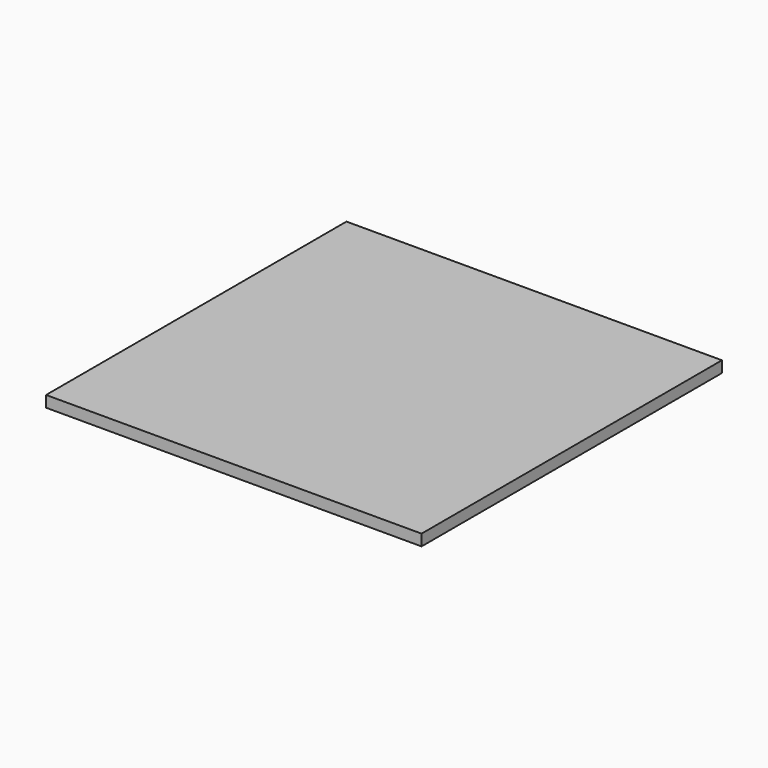
from build123d import *

# Parameters (mm, degrees)
SKETCH_W     = 50
SKETCH_H     = 50
PAD_DEPTH    = 1.5
PAD001_DEPTH = 1.5


with BuildPart() as part:
    # Sketch → Pad (new body)
    with BuildSketch(Plane.XY):
        Rectangle(SKETCH_W, SKETCH_H)
    extrude(amount=PAD_DEPTH)

    # Sketch018 → Pad001 (join)
    with BuildSketch(Plane.XY):
        with BuildLine():
            add(Edge.make_bspline(
                [(10.869189, -4.83777), (5.814295, -14.947241)],
                knots=[0, 0, 35.758305, 35.758305], degree=1))
            add(Edge.make_bspline(
                [(5.814295, -14.947241), (3.738223, -8.719342)],
                knots=[0, 0, 20.768891, 20.768891], degree=1))
            add(Edge.make_bspline(
                [(3.738223, -8.719342), (1.662151, -7.488176)],
                knots=[0, 0, 7.636075, 7.636075], degree=1))
            add(Edge.make_bspline(
                [(1.662151, -7.488176), (5.521597, -19.067144)],
                knots=[0, 0, 38.613308, 38.613308], degree=1))
            add(Edge.make_bspline(
                [(5.521597, -19.067144), (11.845903, -6.418215)],
                knots=[0, 0, 44.740143, 44.740143], degree=1))
            add(Edge.make_bspline(
                [(11.845903, -6.418215), (19.891946, -6.418215)],
                knots=[0, 0, 25.455, 25.455], degree=1))
            add(Edge.make_bspline(
                [(19.891946, -6.418215), (19.891946, -4.83777)],
                knots=[0, 0, 5, 5], degree=1))
            add(Edge.make_bspline(
                [(19.891946, -4.83777), (10.869189, -4.83777)],
                knots=[0, 0, 28.545, 28.545], degree=1))
        make_face()
        with BuildLine():
            add(Edge.make_bspline(
                [(4.25408, -1.613032), (9.465122, 2.858362)],
                knots=[0, 0, 21.723202, 21.723202], degree=1))
            add(Edge.make_bspline(
                [(9.465122, 2.858362), (2.620849, 3.412466)],
                knots=[0, 0, 21.723844, 21.723844], degree=1))
            add(Edge.make_bspline(
                [(2.620849, 3.412466), (-0.020706, 9.75068)],
                knots=[0, 0, 21.723769, 21.723769], degree=1))
            add(Edge.make_bspline(
                [(-0.020706, 9.75068), (-2.663209, 3.412466)],
                knots=[0, 0, 21.724924, 21.724924], degree=1))
            add(Edge.make_bspline(
                [(-2.663209, 3.412466), (-9.506849, 2.858362)],
                knots=[0, 0, 21.721851, 21.721851], degree=1))
            add(Edge.make_bspline(
                [(-9.506849, 2.858362), (-4.295808, -1.613032)],
                knots=[0, 0, 21.723202, 21.723202], degree=1))
            add(Edge.make_bspline(
                [(-4.295808, -1.613032), (-5.884155, -8.29357)],
                knots=[0, 0, 21.724154, 21.724154], degree=1))
            add(Edge.make_bspline(
                [(-5.884155, -8.29357), (-0.020706, -4.718921)],
                knots=[0, 0, 21.725468, 21.725468], degree=1))
            add(Edge.make_bspline(
                [(-0.020706, -4.718921), (5.841795, -8.29357)],
                knots=[0, 0, 21.722907, 21.722907], degree=1))
            add(Edge.make_bspline(
                [(5.841795, -8.29357), (4.25408, -1.613032)],
                knots=[0, 0, 21.723691, 21.723691], degree=1))
        make_face()
        with BuildLine():
            add(Edge.make_bspline(
                [(-3.469868, -4.970528), (-2.535509, -1.040911)],
                knots=[0, 0, 12.778598, 12.778598], degree=1))
            add(Edge.make_bspline(
                [(-2.535509, -1.040911), (-5.600623, 1.589265)],
                knots=[0, 0, 12.777748, 12.777748], degree=1))
            add(Edge.make_bspline(
                [(-5.600623, 1.589265), (-1.575231, 1.915469)],
                knots=[0, 0, 12.776746, 12.776746], degree=1))
            add(Edge.make_bspline(
                [(-1.575231, 1.915469), (-0.021022, 5.643421)],
                knots=[0, 0, 12.777923, 12.777923], degree=1))
            add(Edge.make_bspline(
                [(-0.021022, 5.643421), (1.532871, 1.915469)],
                knots=[0, 0, 12.777539, 12.777539], degree=1))
            add(Edge.make_bspline(
                [(1.532871, 1.915469), (5.558895, 1.589265)],
                knots=[0, 0, 12.77874, 12.77874], degree=1))
            add(Edge.make_bspline(
                [(5.558895, 1.589265), (2.493781, -1.040911)],
                knots=[0, 0, 12.777748, 12.777748], degree=1))
            add(Edge.make_bspline(
                [(2.493781, -1.040911), (3.427508, -4.970528)],
                knots=[0, 0, 12.778135, 12.778135], degree=1))
            add(Edge.make_bspline(
                [(3.427508, -4.970528), (-0.021022, -2.867904)],
                knots=[0, 0, 12.777997, 12.777997], degree=1))
            add(Edge.make_bspline(
                [(-0.021022, -2.867904), (-3.469868, -4.970528)],
                knots=[0, 0, 12.778851, 12.778851], degree=1))
        make_face(mode=Mode.SUBTRACT)
        with BuildLine():
            add(Edge.make_bspline(
                [(17.464067, 9.093215), (17.782685, 9.093215)],
                knots=[0, 0, 1.008, 1.008], degree=1))
            add(Edge.make_bspline(
                [(17.782685, 9.093215), (17.782685, 6.343242)],
                knots=[0, 0, 8.7, 8.7], degree=1))
            add(Edge.make_bspline(
                [(17.782685, 6.343242), (17.464067, 6.343242)],
                knots=[0, 0, 1.008, 1.008], degree=1))
            add(Edge.make_bspline(
                [(17.464067, 6.343242), (17.464067, 9.093215)],
                knots=[0, 0, 8.7, 8.7], degree=1))
        make_face()
        with BuildLine():
            add(Edge.make_bspline(
                [(11.983402, 6.775652), (11.983402, 6.745307), (11.978028, 6.704848), (11.96823, 6.654273)],
                knots=[0, 0, 0, 0, 1, 1, 1, 1], degree=3))
            add(Edge.make_bspline(
                [(11.96823, 6.654273), (11.958115, 6.603699), (11.931563, 6.553125), (11.888575, 6.502551)],
                knots=[0, 0, 0, 0, 1, 1, 1, 1], degree=3))
            add(Edge.make_bspline(
                [(11.888575, 6.502551), (11.845271, 6.451976), (11.780789, 6.408356), (11.695129, 6.37169)],
                knots=[0, 0, 0, 0, 1, 1, 1, 1], degree=3))
            add(Edge.make_bspline(
                [(11.695129, 6.37169), (11.609153, 6.335024), (11.490303, 6.31669), (11.338581, 6.31669)],
                knots=[0, 0, 0, 0, 1, 1, 1, 1], degree=3))
            add(Edge.make_bspline(
                [(11.338581, 6.31669), (11.186858, 6.31669), (11.068009, 6.335024), (10.982032, 6.37169)],
                knots=[0, 0, 0, 0, 1, 1, 1, 1], degree=3))
            add(Edge.make_bspline(
                [(10.982032, 6.37169), (10.896056, 6.408356), (10.831258, 6.451976), (10.788586, 6.502551)],
                knots=[0, 0, 0, 0, 1, 1, 1, 1], degree=3))
            add(Edge.make_bspline(
                [(10.788586, 6.502551), (10.745914, 6.553125), (10.719046, 6.604331), (10.708932, 6.65617)],
                knots=[0, 0, 0, 0, 1, 1, 1, 1], degree=3))
            add(Edge.make_bspline(
                [(10.708932, 6.65617), (10.698817, 6.708008), (10.693759, 6.747836), (10.693759, 6.775652)],
                knots=[0, 0, 0, 0, 1, 1, 1, 1], degree=3))
            add(Edge.make_bspline(
                [(10.693759, 6.775652), (10.693759, 6.870478)],
                knots=[0, 0, 0.3, 0.3], degree=1))
            add(Edge.make_bspline(
                [(10.693759, 6.870478), (11.012377, 6.870478)],
                knots=[0, 0, 1.008, 1.008], degree=1))
            add(Edge.make_bspline(
                [(11.012377, 6.870478), (11.012377, 6.836341)],
                knots=[0, 0, 0.108, 0.108], degree=1))
            add(Edge.make_bspline(
                [(11.012377, 6.836341), (11.012377, 6.813582), (11.015538, 6.788927), (11.02186, 6.762376)],
                knots=[0, 0, 0, 0, 1, 1, 1, 1], degree=3))
            add(Edge.make_bspline(
                [(11.02186, 6.762376), (11.028181, 6.735824), (11.042405, 6.710537), (11.06548, 6.686514)],
                knots=[0, 0, 0, 0, 1, 1, 1, 1], degree=3))
            add(Edge.make_bspline(
                [(11.06548, 6.686514), (11.088554, 6.662492), (11.120479, 6.642262), (11.162519, 6.625825)],
                knots=[0, 0, 0, 0, 1, 1, 1, 1], degree=3))
            add(Edge.make_bspline(
                [(11.162519, 6.625825), (11.204243, 6.609389), (11.259242, 6.60117), (11.327201, 6.60117)],
                knots=[0, 0, 0, 0, 1, 1, 1, 1], degree=3))
            add(Edge.make_bspline(
                [(11.327201, 6.60117), (11.400534, 6.60117), (11.458694, 6.609389), (11.501682, 6.625825)],
                knots=[0, 0, 0, 0, 1, 1, 1, 1], degree=3))
            add(Edge.make_bspline(
                [(11.501682, 6.625825), (11.544987, 6.642262), (11.578176, 6.66186), (11.602199, 6.684618)],
                knots=[0, 0, 0, 0, 1, 1, 1, 1], degree=3))
            add(Edge.make_bspline(
                [(11.602199, 6.684618), (11.626222, 6.707376), (11.642026, 6.732031), (11.649612, 6.758583)],
                knots=[0, 0, 0, 0, 1, 1, 1, 1], degree=3))
            add(Edge.make_bspline(
                [(11.649612, 6.758583), (11.656882, 6.785134), (11.660675, 6.808525), (11.660675, 6.828754)],
                knots=[0, 0, 0, 0, 1, 1, 1, 1], degree=3))
            add(Edge.make_bspline(
                [(11.660675, 6.828754), (11.660675, 6.870478)],
                knots=[0, 0, 0.132, 0.132], degree=1))
            add(Edge.make_bspline(
                [(11.660675, 6.870478), (11.660675, 7.204268)],
                knots=[0, 0, 1.056, 1.056], degree=1))
            add(Edge.make_bspline(
                [(11.660675, 7.204268), (11.660675, 7.242199)],
                knots=[0, 0, 0.12, 0.12], degree=1))
            add(Edge.make_bspline(
                [(11.660675, 7.242199), (11.660675, 7.272543), (11.652141, 7.308577), (11.634124, 7.350301)],
                knots=[0, 0, 0, 0, 1, 1, 1, 1], degree=3))
            add(Edge.make_bspline(
                [(11.634124, 7.350301), (11.616423, 7.392025), (11.574699, 7.424266), (11.508953, 7.447024)],
                knots=[0, 0, 0, 0, 1, 1, 1, 1], degree=3))
            add(Edge.make_bspline(
                [(11.508953, 7.447024), (11.49378, 7.452082), (11.474815, 7.458404), (11.452057, 7.46599)],
                knots=[0, 0, 0, 0, 1, 1, 1, 1], degree=3))
            add(Edge.make_bspline(
                [(11.452057, 7.46599), (11.429298, 7.473576), (11.408752, 7.481162), (11.391367, 7.488748)],
                knots=[0, 0, 0, 0, 1, 1, 1, 1], degree=3))
            add(Edge.make_bspline(
                [(11.391367, 7.488748), (11.106887, 7.583575)],
                knots=[0, 0, 0.948683, 0.948683], degree=1))
            add(Edge.make_bspline(
                [(11.106887, 7.583575), (11.097089, 7.588632), (11.089186, 7.591161), (11.084445, 7.591161)],
                knots=[0, 0, 0, 0, 1, 1, 1, 1], degree=3))
            add(Edge.make_bspline(
                [(11.084445, 7.591161), (10.940309, 7.634149), (10.83916, 7.696102), (10.781, 7.777021)],
                knots=[0, 0, 0, 0, 1, 1, 1, 1], degree=3))
            add(Edge.make_bspline(
                [(10.781, 7.777021), (10.722523, 7.85794), (10.693759, 7.943916), (10.693759, 8.03495)],
                knots=[0, 0, 0, 0, 1, 1, 1, 1], degree=3))
            add(Edge.make_bspline(
                [(10.693759, 8.03495), (10.693759, 8.057708)],
                knots=[0, 0, 0.072, 0.072], degree=1))
            add(Edge.make_bspline(
                [(10.693759, 8.057708), (10.693759, 8.125983)],
                knots=[0, 0, 0.216, 0.216], degree=1))
            add(Edge.make_bspline(
                [(10.693759, 8.125983), (10.693759, 8.588737)],
                knots=[0, 0, 1.464, 1.464], degree=1))
            add(Edge.make_bspline(
                [(10.693759, 8.588737), (10.693759, 8.668392)],
                knots=[0, 0, 0.252, 0.252], degree=1))
            add(Edge.make_bspline(
                [(10.693759, 8.668392), (10.693759, 8.696208), (10.698817, 8.736035), (10.708932, 8.787873)],
                knots=[0, 0, 0, 0, 1, 1, 1, 1], degree=3))
            add(Edge.make_bspline(
                [(10.708932, 8.787873), (10.719046, 8.839712), (10.745598, 8.890918), (10.788586, 8.941493)],
                knots=[0, 0, 0, 0, 1, 1, 1, 1], degree=3))
            add(Edge.make_bspline(
                [(10.788586, 8.941493), (10.831574, 8.992067), (10.896056, 9.035687), (10.982032, 9.072353)],
                knots=[0, 0, 0, 0, 1, 1, 1, 1], degree=3))
            add(Edge.make_bspline(
                [(10.982032, 9.072353), (11.067692, 9.10902), (11.186542, 9.127353), (11.338581, 9.127353)],
                knots=[0, 0, 0, 0, 1, 1, 1, 1], degree=3))
            add(Edge.make_bspline(
                [(11.338581, 9.127353), (11.489987, 9.127353), (11.608837, 9.10902), (11.695129, 9.072353)],
                knots=[0, 0, 0, 0, 1, 1, 1, 1], degree=3))
            add(Edge.make_bspline(
                [(11.695129, 9.072353), (11.780789, 9.035687), (11.845587, 8.992067), (11.888575, 8.941493)],
                knots=[0, 0, 0, 0, 1, 1, 1, 1], degree=3))
            add(Edge.make_bspline(
                [(11.888575, 8.941493), (11.931563, 8.890918), (11.958115, 8.839712), (11.96823, 8.787873)],
                knots=[0, 0, 0, 0, 1, 1, 1, 1], degree=3))
            add(Edge.make_bspline(
                [(11.96823, 8.787873), (11.978028, 8.736035), (11.983402, 8.696208), (11.983402, 8.668392)],
                knots=[0, 0, 0, 0, 1, 1, 1, 1], degree=3))
            add(Edge.make_bspline(
                [(11.983402, 8.668392), (11.983402, 8.569772)],
                knots=[0, 0, 0.312, 0.312], degree=1))
            add(Edge.make_bspline(
                [(11.983402, 8.569772), (11.660675, 8.569772)],
                knots=[0, 0, 1.021, 1.021], degree=1))
            add(Edge.make_bspline(
                [(11.660675, 8.569772), (11.660675, 8.611496)],
                knots=[0, 0, 0.132, 0.132], degree=1))
            add(Edge.make_bspline(
                [(11.660675, 8.611496), (11.660675, 8.634254), (11.656882, 8.658909), (11.649612, 8.685461)],
                knots=[0, 0, 0, 0, 1, 1, 1, 1], degree=3))
            add(Edge.make_bspline(
                [(11.649612, 8.685461), (11.642026, 8.712012), (11.626222, 8.736667), (11.602199, 8.759425)],
                knots=[0, 0, 0, 0, 1, 1, 1, 1], degree=3))
            add(Edge.make_bspline(
                [(11.602199, 8.759425), (11.578176, 8.782184), (11.544671, 8.801781), (11.501682, 8.818218)],
                knots=[0, 0, 0, 0, 1, 1, 1, 1], degree=3))
            add(Edge.make_bspline(
                [(11.501682, 8.818218), (11.458694, 8.834655), (11.40085, 8.842873), (11.327201, 8.842873)],
                knots=[0, 0, 0, 0, 1, 1, 1, 1], degree=3))
            add(Edge.make_bspline(
                [(11.327201, 8.842873), (11.258926, 8.842873), (11.203927, 8.834655), (11.162519, 8.818218)],
                knots=[0, 0, 0, 0, 1, 1, 1, 1], degree=3))
            add(Edge.make_bspline(
                [(11.162519, 8.818218), (11.120479, 8.801781), (11.088554, 8.780919), (11.06548, 8.755632)],
                knots=[0, 0, 0, 0, 1, 1, 1, 1], degree=3))
            add(Edge.make_bspline(
                [(11.06548, 8.755632), (11.042405, 8.730345), (11.028181, 8.704426), (11.02186, 8.677874)],
                knots=[0, 0, 0, 0, 1, 1, 1, 1], degree=3))
            add(Edge.make_bspline(
                [(11.02186, 8.677874), (11.015222, 8.651323), (11.012377, 8.626668), (11.012377, 8.60391)],
                knots=[0, 0, 0, 0, 1, 1, 1, 1], degree=3))
            add(Edge.make_bspline(
                [(11.012377, 8.60391), (11.012377, 8.569772)],
                knots=[0, 0, 0.108, 0.108], degree=1))
            add(Edge.make_bspline(
                [(11.012377, 8.569772), (11.012377, 8.125983)],
                knots=[0, 0, 1.404, 1.404], degree=1))
            add(Edge.make_bspline(
                [(11.012377, 8.125983), (11.012377, 8.091846)],
                knots=[0, 0, 0.108, 0.108], degree=1))
            add(Edge.make_bspline(
                [(11.012377, 8.091846), (11.012377, 8.058972), (11.02186, 8.022306), (11.040825, 7.981847)],
                knots=[0, 0, 0, 0, 1, 1, 1, 1], degree=3))
            add(Edge.make_bspline(
                [(11.040825, 7.981847), (11.060106, 7.941387), (11.102146, 7.909778), (11.167893, 7.88702)],
                knots=[0, 0, 0, 0, 1, 1, 1, 1], degree=3))
            add(Edge.make_bspline(
                [(11.167893, 7.88702), (11.178007, 7.881963), (11.190651, 7.876905), (11.205823, 7.871848)],
                knots=[0, 0, 0, 0, 1, 1, 1, 1], degree=3))
            add(Edge.make_bspline(
                [(11.205823, 7.871848), (11.220996, 7.86679), (11.236168, 7.861733), (11.25134, 7.856676)],
                knots=[0, 0, 0, 0, 1, 1, 1, 1], degree=3))
            add(Edge.make_bspline(
                [(11.25134, 7.856676), (11.297173, 7.841503), (11.349644, 7.823802), (11.408752, 7.803573)],
                knots=[0, 0, 0, 0, 1, 1, 1, 1], degree=3))
            add(Edge.make_bspline(
                [(11.408752, 7.803573), (11.468177, 7.783343), (11.523177, 7.763113), (11.573751, 7.742884)],
                knots=[0, 0, 0, 0, 1, 1, 1, 1], degree=3))
            add(Edge.make_bspline(
                [(11.573751, 7.742884), (11.624325, 7.729924), (11.667313, 7.715068), (11.702715, 7.697367)],
                knots=[0, 0, 0, 0, 1, 1, 1, 1], degree=3))
            add(Edge.make_bspline(
                [(11.702715, 7.697367), (11.748232, 7.682194), (11.788059, 7.660068), (11.822197, 7.630988)],
                knots=[0, 0, 0, 0, 1, 1, 1, 1], degree=3))
            add(Edge.make_bspline(
                [(11.822197, 7.630988), (11.856018, 7.601908), (11.88573, 7.568402), (11.911018, 7.530472)],
                knots=[0, 0, 0, 0, 1, 1, 1, 1], degree=3))
            add(Edge.make_bspline(
                [(11.911018, 7.530472), (11.959063, 7.459668), (11.983402, 7.381278), (11.983402, 7.295302)],
                knots=[0, 0, 0, 0, 1, 1, 1, 1], degree=3))
            add(Edge.make_bspline(
                [(11.983402, 7.295302), (11.983402, 7.249785)],
                knots=[0, 0, 0.144, 0.144], degree=1))
            add(Edge.make_bspline(
                [(11.983402, 7.249785), (11.983402, 6.870478)],
                knots=[0, 0, 1.2, 1.2], degree=1))
            add(Edge.make_bspline(
                [(11.983402, 6.870478), (11.983402, 6.775652)],
                knots=[0, 0, 0.3, 0.3], degree=1))
        make_face()
        with BuildLine():
            add(Edge.make_bspline(
                [(6.147137, 11.775546), (5.502315, 11.775546)],
                knots=[0, 0, 2.04, 2.04], degree=1))
            add(Edge.make_bspline(
                [(5.502315, 11.775546), (5.502315, 16.22102)],
                knots=[0, 0, 14.064, 14.064], degree=1))
            add(Edge.make_bspline(
                [(5.502315, 16.22102), (5.502315, 16.304467)],
                knots=[0, 0, 0.264, 0.264], degree=1))
            add(Edge.make_bspline(
                [(5.502315, 16.304467), (5.502315, 16.349984), (5.494729, 16.399294), (5.479557, 16.452397)],
                knots=[0, 0, 0, 0, 1, 1, 1, 1], degree=3))
            add(Edge.make_bspline(
                [(5.479557, 16.452397), (5.464385, 16.5055), (5.43404, 16.55481), (5.388523, 16.600326)],
                knots=[0, 0, 0, 0, 1, 1, 1, 1], degree=3))
            add(Edge.make_bspline(
                [(5.388523, 16.600326), (5.343007, 16.645843), (5.275996, 16.685038), (5.187491, 16.717911)],
                knots=[0, 0, 0, 0, 1, 1, 1, 1], degree=3))
            add(Edge.make_bspline(
                [(5.187491, 16.717911), (5.098986, 16.750785), (4.981401, 16.767221), (4.834736, 16.767221)],
                knots=[0, 0, 0, 0, 1, 1, 1, 1], degree=3))
            add(Edge.make_bspline(
                [(4.834736, 16.767221), (4.698185, 16.767221), (4.588186, 16.750785), (4.504739, 16.717911)],
                knots=[0, 0, 0, 0, 1, 1, 1, 1], degree=3))
            add(Edge.make_bspline(
                [(4.504739, 16.717911), (4.421291, 16.685038), (4.356809, 16.643314), (4.311292, 16.59274)],
                knots=[0, 0, 0, 0, 1, 1, 1, 1], degree=3))
            add(Edge.make_bspline(
                [(4.311292, 16.59274), (4.265776, 16.542166), (4.237012, 16.490327), (4.224368, 16.437224)],
                knots=[0, 0, 0, 0, 1, 1, 1, 1], degree=3))
            add(Edge.make_bspline(
                [(4.224368, 16.437224), (4.211724, 16.384122), (4.205087, 16.334812), (4.205087, 16.289295)],
                knots=[0, 0, 0, 0, 1, 1, 1, 1], degree=3))
            add(Edge.make_bspline(
                [(4.205087, 16.289295), (4.205087, 16.22102)],
                knots=[0, 0, 0.216, 0.216], degree=1))
            add(Edge.make_bspline(
                [(4.205087, 16.22102), (4.205087, 11.775546)],
                knots=[0, 0, 14.064, 14.064], degree=1))
            add(Edge.make_bspline(
                [(4.205087, 11.775546), (3.567851, 11.775546)],
                knots=[0, 0, 2.016, 2.016], degree=1))
            add(Edge.make_bspline(
                [(3.567851, 11.775546), (3.567851, 16.22102)],
                knots=[0, 0, 14.064, 14.064], degree=1))
            add(Edge.make_bspline(
                [(3.567851, 16.22102), (3.567851, 16.418259)],
                knots=[0, 0, 0.624, 0.624], degree=1))
            add(Edge.make_bspline(
                [(3.567851, 16.418259), (3.567851, 16.473891), (3.577966, 16.553545), (3.598196, 16.657222)],
                knots=[0, 0, 0, 0, 1, 1, 1, 1], degree=3))
            add(Edge.make_bspline(
                [(3.598196, 16.657222), (3.618426, 16.7609), (3.671529, 16.863312), (3.757505, 16.964461)],
                knots=[0, 0, 0, 0, 1, 1, 1, 1], degree=3))
            add(Edge.make_bspline(
                [(3.757505, 16.964461), (3.843481, 17.065609), (3.972761, 17.15285), (4.144714, 17.226182)],
                knots=[0, 0, 0, 0, 1, 1, 1, 1], degree=3))
            add(Edge.make_bspline(
                [(4.144714, 17.226182), (4.316666, 17.299199), (4.554365, 17.336181), (4.85781, 17.336181)],
                knots=[0, 0, 0, 0, 1, 1, 1, 1], degree=3))
            add(Edge.make_bspline(
                [(4.85781, 17.336181), (5.161255, 17.336181), (5.398954, 17.299515), (5.570907, 17.226182)],
                knots=[0, 0, 0, 0, 1, 1, 1, 1], degree=3))
            add(Edge.make_bspline(
                [(5.570907, 17.226182), (5.742859, 17.15285), (5.871823, 17.065609), (5.957799, 16.964461)],
                knots=[0, 0, 0, 0, 1, 1, 1, 1], degree=3))
            add(Edge.make_bspline(
                [(5.957799, 16.964461), (6.043776, 16.863312), (6.096879, 16.7609), (6.117424, 16.657222)],
                knots=[0, 0, 0, 0, 1, 1, 1, 1], degree=3))
            add(Edge.make_bspline(
                [(6.117424, 16.657222), (6.137338, 16.553545), (6.147769, 16.473891), (6.147769, 16.418259)],
                knots=[0, 0, 0, 0, 1, 1, 1, 1], degree=3))
            add(Edge.make_bspline(
                [(6.147769, 16.418259), (6.147769, 16.327226)],
                knots=[0, 0, 0.288, 0.288], degree=1))
            add(Edge.make_bspline(
                [(6.147769, 16.327226), (6.147769, 11.775546)],
                knots=[0, 0, 14.4, 14.4], degree=1))
            add(Edge.make_bspline(
                [(6.147769, 11.775546), (6.147137, 11.775546)],
                knots=[0, 0, 0.002, 0.002], degree=1))
        make_face()
        with BuildLine():
            add(Edge.make_bspline(
                [(13.644765, 8.823908), (13.159253, 8.823908)],
                knots=[0, 0, 1.536, 1.536], degree=1))
            add(Edge.make_bspline(
                [(13.159253, 8.823908), (13.159253, 6.343242)],
                knots=[0, 0, 7.848, 7.848], degree=1))
            add(Edge.make_bspline(
                [(13.159253, 6.343242), (12.840635, 6.343242)],
                knots=[0, 0, 1.008, 1.008], degree=1))
            add(Edge.make_bspline(
                [(12.840635, 6.343242), (12.840635, 8.823908)],
                knots=[0, 0, 7.848, 7.848], degree=1))
            add(Edge.make_bspline(
                [(12.840635, 8.823908), (12.355122, 8.823908)],
                knots=[0, 0, 1.536, 1.536], degree=1))
            add(Edge.make_bspline(
                [(12.355122, 8.823908), (12.355122, 9.093215)],
                knots=[0, 0, 0.852, 0.852], degree=1))
            add(Edge.make_bspline(
                [(12.355122, 9.093215), (12.624746, 9.093215)],
                knots=[0, 0, 0.853, 0.853], degree=1))
            add(Edge.make_bspline(
                [(12.624746, 9.093215), (13.645081, 9.093215)],
                knots=[0, 0, 3.228, 3.228], degree=1))
            add(Edge.make_bspline(
                [(13.645081, 9.093215), (13.645081, 8.823908)],
                knots=[0, 0, 0.852, 0.852], degree=1))
            add(Edge.make_bspline(
                [(13.645081, 8.823908), (13.644765, 8.823908)],
                knots=[0, 0, 0.001, 0.001], degree=1))
        make_face()
        with BuildLine():
            add(Edge.make_bspline(
                [(15.279577, 6.809789), (15.275784, 6.809789)],
                knots=[0, 0, 0.012, 0.012], degree=1))
            add(Edge.make_bspline(
                [(15.275784, 6.809789), (15.275784, 6.771858)],
                knots=[0, 0, 0.12, 0.12], degree=1))
            add(Edge.make_bspline(
                [(15.275784, 6.771858), (15.275784, 6.741514), (15.27041, 6.701055), (15.260612, 6.65048)],
                knots=[0, 0, 0, 0, 1, 1, 1, 1], degree=3))
            add(Edge.make_bspline(
                [(15.260612, 6.65048), (15.250497, 6.599906), (15.223945, 6.549332), (15.180957, 6.498758)],
                knots=[0, 0, 0, 0, 1, 1, 1, 1], degree=3))
            add(Edge.make_bspline(
                [(15.180957, 6.498758), (15.137653, 6.448183), (15.073171, 6.404563), (14.987511, 6.367897)],
                knots=[0, 0, 0, 0, 1, 1, 1, 1], degree=3))
            add(Edge.make_bspline(
                [(14.987511, 6.367897), (14.901535, 6.331231), (14.782685, 6.312897), (14.630962, 6.312897)],
                knots=[0, 0, 0, 0, 1, 1, 1, 1], degree=3))
            add(Edge.make_bspline(
                [(14.630962, 6.312897), (14.47924, 6.312897), (14.36039, 6.331231), (14.274414, 6.367897)],
                knots=[0, 0, 0, 0, 1, 1, 1, 1], degree=3))
            add(Edge.make_bspline(
                [(14.274414, 6.367897), (14.188438, 6.404563), (14.12364, 6.448183), (14.080968, 6.498758)],
                knots=[0, 0, 0, 0, 1, 1, 1, 1], degree=3))
            add(Edge.make_bspline(
                [(14.080968, 6.498758), (14.03798, 6.549332), (14.011428, 6.600538), (14.001313, 6.652377)],
                knots=[0, 0, 0, 0, 1, 1, 1, 1], degree=3))
            add(Edge.make_bspline(
                [(14.001313, 6.652377), (13.991199, 6.704215), (13.986141, 6.744043), (13.986141, 6.771858)],
                knots=[0, 0, 0, 0, 1, 1, 1, 1], degree=3))
            add(Edge.make_bspline(
                [(13.986141, 6.771858), (13.986141, 6.866685)],
                knots=[0, 0, 0.3, 0.3], degree=1))
            add(Edge.make_bspline(
                [(13.986141, 6.866685), (13.986141, 9.093215)],
                knots=[0, 0, 7.044, 7.044], degree=1))
            add(Edge.make_bspline(
                [(13.986141, 9.093215), (14.308552, 9.093215)],
                knots=[0, 0, 1.02, 1.02], degree=1))
            add(Edge.make_bspline(
                [(14.308552, 9.093215), (14.308552, 6.866685)],
                knots=[0, 0, 7.044, 7.044], degree=1))
            add(Edge.make_bspline(
                [(14.308552, 6.866685), (14.308552, 6.832548)],
                knots=[0, 0, 0.108, 0.108], degree=1))
            add(Edge.make_bspline(
                [(14.308552, 6.832548), (14.308552, 6.809789), (14.312029, 6.785134), (14.318034, 6.758583)],
                knots=[0, 0, 0, 0, 1, 1, 1, 1], degree=3))
            add(Edge.make_bspline(
                [(14.318034, 6.758583), (14.324672, 6.732031), (14.338896, 6.706744), (14.361971, 6.682721)],
                knots=[0, 0, 0, 0, 1, 1, 1, 1], degree=3))
            add(Edge.make_bspline(
                [(14.361971, 6.682721), (14.384413, 6.658699), (14.41697, 6.638469), (14.458694, 6.622032)],
                knots=[0, 0, 0, 0, 1, 1, 1, 1], degree=3))
            add(Edge.make_bspline(
                [(14.458694, 6.622032), (14.500418, 6.605596), (14.555417, 6.597377), (14.623376, 6.597377)],
                knots=[0, 0, 0, 0, 1, 1, 1, 1], degree=3))
            add(Edge.make_bspline(
                [(14.623376, 6.597377), (14.696709, 6.597377), (14.754869, 6.605596), (14.798174, 6.622032)],
                knots=[0, 0, 0, 0, 1, 1, 1, 1], degree=3))
            add(Edge.make_bspline(
                [(14.798174, 6.622032), (14.841162, 6.638469), (14.874351, 6.658066), (14.898374, 6.680825)],
                knots=[0, 0, 0, 0, 1, 1, 1, 1], degree=3))
            add(Edge.make_bspline(
                [(14.898374, 6.680825), (14.922396, 6.703583), (14.938201, 6.728238), (14.945787, 6.75479)],
                knots=[0, 0, 0, 0, 1, 1, 1, 1], degree=3))
            add(Edge.make_bspline(
                [(14.945787, 6.75479), (14.953057, 6.781341), (14.957166, 6.804732), (14.957166, 6.824961)],
                knots=[0, 0, 0, 0, 1, 1, 1, 1], degree=3))
            add(Edge.make_bspline(
                [(14.957166, 6.824961), (14.957166, 6.866685)],
                knots=[0, 0, 0.132, 0.132], degree=1))
            add(Edge.make_bspline(
                [(14.957166, 6.866685), (14.957166, 9.093215)],
                knots=[0, 0, 7.044, 7.044], degree=1))
            add(Edge.make_bspline(
                [(14.957166, 9.093215), (15.279577, 9.093215)],
                knots=[0, 0, 1.02, 1.02], degree=1))
            add(Edge.make_bspline(
                [(15.279577, 9.093215), (15.279577, 6.809789)],
                knots=[0, 0, 7.224, 7.224], degree=1))
        make_face()
        with BuildLine():
            add(Edge.make_bspline(
                [(12.49673, 11.775546), (11.009848, 11.775546)],
                knots=[0, 0, 4.704, 4.704], degree=1))
            add(Edge.make_bspline(
                [(11.009848, 11.775546), (10.863183, 11.775546), (10.736747, 11.802097), (10.630542, 11.8552)],
                knots=[0, 0, 0, 0, 1, 1, 1, 1], degree=3))
            add(Edge.make_bspline(
                [(10.630542, 11.8552), (10.524336, 11.908303), (10.435831, 11.976578), (10.365027, 12.060026)],
                knots=[0, 0, 0, 0, 1, 1, 1, 1], degree=3))
            add(Edge.make_bspline(
                [(10.365027, 12.060026), (10.293907, 12.143473), (10.240804, 12.235771), (10.205718, 12.336919)],
                knots=[0, 0, 0, 0, 1, 1, 1, 1], degree=3))
            add(Edge.make_bspline(
                [(10.205718, 12.336919), (10.170316, 12.438068), (10.152615, 12.536688), (10.152615, 12.632779)],
                knots=[0, 0, 0, 0, 1, 1, 1, 1], degree=3))
            add(Edge.make_bspline(
                [(10.152615, 12.632779), (10.152615, 12.830018)],
                knots=[0, 0, 0.624, 0.624], degree=1))
            add(Edge.make_bspline(
                [(10.152615, 12.830018), (10.152615, 16.22102)],
                knots=[0, 0, 10.728, 10.728], degree=1))
            add(Edge.make_bspline(
                [(10.152615, 16.22102), (10.152615, 16.418259)],
                knots=[0, 0, 0.624, 0.624], degree=1))
            add(Edge.make_bspline(
                [(10.152615, 16.418259), (10.152615, 16.51435), (10.170316, 16.61297), (10.205718, 16.714118)],
                knots=[0, 0, 0, 0, 1, 1, 1, 1], degree=3))
            add(Edge.make_bspline(
                [(10.205718, 16.714118), (10.240804, 16.815267), (10.293907, 16.907565), (10.365027, 16.991012)],
                knots=[0, 0, 0, 0, 1, 1, 1, 1], degree=3))
            add(Edge.make_bspline(
                [(10.365027, 16.991012), (10.435831, 17.07446), (10.524336, 17.142735), (10.630542, 17.195838)],
                knots=[0, 0, 0, 0, 1, 1, 1, 1], degree=3))
            add(Edge.make_bspline(
                [(10.630542, 17.195838), (10.736747, 17.248941), (10.863183, 17.275492), (11.009848, 17.275492)],
                knots=[0, 0, 0, 0, 1, 1, 1, 1], degree=3))
            add(Edge.make_bspline(
                [(11.009848, 17.275492), (12.49673, 17.275492)],
                knots=[0, 0, 4.704, 4.704], degree=1))
            add(Edge.make_bspline(
                [(12.49673, 17.275492), (12.49673, 16.744463)],
                knots=[0, 0, 1.68, 1.68], degree=1))
            add(Edge.make_bspline(
                [(12.49673, 16.744463), (11.677428, 16.744463)],
                knots=[0, 0, 2.592, 2.592], degree=1))
            add(Edge.make_bspline(
                [(11.677428, 16.744463), (11.22226, 16.744463)],
                knots=[0, 0, 1.44, 1.44], degree=1))
            add(Edge.make_bspline(
                [(11.22226, 16.744463), (11.090767, 16.744463), (10.985825, 16.699894), (10.907435, 16.611706)],
                knots=[0, 0, 0, 0, 1, 1, 1, 1], degree=3))
            add(Edge.make_bspline(
                [(10.907435, 16.611706), (10.829045, 16.523517), (10.78985, 16.41573), (10.78985, 16.289295)],
                knots=[0, 0, 0, 0, 1, 1, 1, 1], degree=3))
            add(Edge.make_bspline(
                [(10.78985, 16.289295), (10.78985, 16.22102)],
                knots=[0, 0, 0.216, 0.216], degree=1))
            add(Edge.make_bspline(
                [(10.78985, 16.22102), (10.78985, 14.825171)],
                knots=[0, 0, 4.416, 4.416], degree=1))
            add(Edge.make_bspline(
                [(10.78985, 14.825171), (12.163257, 14.825171)],
                knots=[0, 0, 4.345, 4.345], degree=1))
            add(Edge.make_bspline(
                [(12.163257, 14.825171), (12.163257, 14.225867)],
                knots=[0, 0, 1.896, 1.896], degree=1))
            add(Edge.make_bspline(
                [(12.163257, 14.225867), (10.78985, 14.225867)],
                knots=[0, 0, 4.345, 4.345], degree=1))
            add(Edge.make_bspline(
                [(10.78985, 14.225867), (10.78985, 12.830018)],
                knots=[0, 0, 4.416, 4.416], degree=1))
            add(Edge.make_bspline(
                [(10.78985, 12.830018), (10.78985, 12.754157)],
                knots=[0, 0, 0.24, 0.24], degree=1))
            add(Edge.make_bspline(
                [(10.78985, 12.754157), (10.78985, 12.632779), (10.829045, 12.527837), (10.907435, 12.439332)],
                knots=[0, 0, 0, 0, 1, 1, 1, 1], degree=3))
            add(Edge.make_bspline(
                [(10.907435, 12.439332), (10.985825, 12.350827), (11.090767, 12.306575), (11.22226, 12.306575)],
                knots=[0, 0, 0, 0, 1, 1, 1, 1], degree=3))
            add(Edge.make_bspline(
                [(11.22226, 12.306575), (11.677428, 12.306575)],
                knots=[0, 0, 1.44, 1.44], degree=1))
            add(Edge.make_bspline(
                [(11.677428, 12.306575), (12.49673, 12.306575)],
                knots=[0, 0, 2.592, 2.592], degree=1))
            add(Edge.make_bspline(
                [(12.49673, 12.306575), (12.49673, 11.775546)],
                knots=[0, 0, 1.68, 1.68], degree=1))
        make_face()
        with BuildLine():
            add(Edge.make_bspline(
                [(2.035136, 17.275176), (2.672372, 17.275176)],
                knots=[0, 0, 2.016, 2.016], degree=1))
            add(Edge.make_bspline(
                [(2.672372, 17.275176), (2.672372, 11.775229)],
                knots=[0, 0, 17.4, 17.4], degree=1))
            add(Edge.make_bspline(
                [(2.672372, 11.775229), (2.035136, 11.775229)],
                knots=[0, 0, 2.016, 2.016], degree=1))
            add(Edge.make_bspline(
                [(2.035136, 11.775229), (2.035136, 17.275176)],
                knots=[0, 0, 17.4, 17.4], degree=1))
        make_face()
        with BuildLine():
            add(Edge.make_bspline(
                [(15.333312, 16.22829), (15.333312, 16.311737)],
                knots=[0, 0, 0.264, 0.264], degree=1))
            add(Edge.make_bspline(
                [(15.333312, 16.311737), (15.333312, 16.357254), (15.326042, 16.406564), (15.31087, 16.459667)],
                knots=[0, 0, 0, 0, 1, 1, 1, 1], degree=3))
            add(Edge.make_bspline(
                [(15.31087, 16.459667), (15.295697, 16.51277), (15.264089, 16.56208), (15.216043, 16.607596)],
                knots=[0, 0, 0, 0, 1, 1, 1, 1], degree=3))
            add(Edge.make_bspline(
                [(15.216043, 16.607596), (15.167998, 16.653113), (15.100987, 16.692308), (15.014694, 16.725181)],
                knots=[0, 0, 0, 0, 1, 1, 1, 1], degree=3))
            add(Edge.make_bspline(
                [(15.014694, 16.725181), (14.928718, 16.758055), (14.812398, 16.774491), (14.665732, 16.774491)],
                knots=[0, 0, 0, 0, 1, 1, 1, 1], degree=3))
            add(Edge.make_bspline(
                [(14.665732, 16.774491), (14.528866, 16.774491), (14.419183, 16.758055), (14.335735, 16.725181)],
                knots=[0, 0, 0, 0, 1, 1, 1, 1], degree=3))
            add(Edge.make_bspline(
                [(14.335735, 16.725181), (14.251972, 16.692308), (14.18749, 16.650584), (14.142289, 16.60001)],
                knots=[0, 0, 0, 0, 1, 1, 1, 1], degree=3))
            add(Edge.make_bspline(
                [(14.142289, 16.60001), (14.096772, 16.549436), (14.067692, 16.497597), (14.055049, 16.444495)],
                knots=[0, 0, 0, 0, 1, 1, 1, 1], degree=3))
            add(Edge.make_bspline(
                [(14.055049, 16.444495), (14.042405, 16.391392), (14.036083, 16.342082), (14.036083, 16.296565)],
                knots=[0, 0, 0, 0, 1, 1, 1, 1], degree=3))
            add(Edge.make_bspline(
                [(14.036083, 16.296565), (14.036083, 16.22829)],
                knots=[0, 0, 0.216, 0.216], degree=1))
            add(Edge.make_bspline(
                [(14.036083, 16.22829), (14.036083, 12.829702)],
                knots=[0, 0, 10.752, 10.752], degree=1))
            add(Edge.make_bspline(
                [(14.036083, 12.829702), (14.036083, 12.761427)],
                knots=[0, 0, 0.216, 0.216], degree=1))
            add(Edge.make_bspline(
                [(14.036083, 12.761427), (14.036083, 12.71591), (14.042405, 12.6666), (14.055049, 12.613497)],
                knots=[0, 0, 0, 0, 1, 1, 1, 1], degree=3))
            add(Edge.make_bspline(
                [(14.055049, 12.613497), (14.067692, 12.560394), (14.097088, 12.50982), (14.142289, 12.461775)],
                knots=[0, 0, 0, 0, 1, 1, 1, 1], degree=3))
            add(Edge.make_bspline(
                [(14.142289, 12.461775), (14.187806, 12.413729), (14.252288, 12.37327), (14.335735, 12.340396)],
                knots=[0, 0, 0, 0, 1, 1, 1, 1], degree=3))
            add(Edge.make_bspline(
                [(14.335735, 12.340396), (14.419183, 12.307523), (14.528866, 12.291087), (14.665732, 12.291087)],
                knots=[0, 0, 0, 0, 1, 1, 1, 1], degree=3))
            add(Edge.make_bspline(
                [(14.665732, 12.291087), (14.812398, 12.291087), (14.928402, 12.307523), (15.014694, 12.340396)],
                knots=[0, 0, 0, 0, 1, 1, 1, 1], degree=3))
            add(Edge.make_bspline(
                [(15.014694, 12.340396), (15.100671, 12.37327), (15.167681, 12.412465), (15.216043, 12.457981)],
                knots=[0, 0, 0, 0, 1, 1, 1, 1], degree=3))
            add(Edge.make_bspline(
                [(15.216043, 12.457981), (15.263772, 12.503498), (15.295697, 12.552808), (15.31087, 12.605911)],
                knots=[0, 0, 0, 0, 1, 1, 1, 1], degree=3))
            add(Edge.make_bspline(
                [(15.31087, 12.605911), (15.326042, 12.659014), (15.333312, 12.705795), (15.333312, 12.746255)],
                knots=[0, 0, 0, 0, 1, 1, 1, 1], degree=3))
            add(Edge.make_bspline(
                [(15.333312, 12.746255), (15.333312, 12.829702)],
                knots=[0, 0, 0.264, 0.264], degree=1))
            add(Edge.make_bspline(
                [(15.333312, 12.829702), (15.978133, 12.829702)],
                knots=[0, 0, 2.04, 2.04], degree=1))
            add(Edge.make_bspline(
                [(15.978133, 12.829702), (15.978133, 12.640049)],
                knots=[0, 0, 0.6, 0.6], degree=1))
            add(Edge.make_bspline(
                [(15.978133, 12.640049), (15.978133, 12.57936), (15.968018, 12.498441), (15.947789, 12.397292)],
                knots=[0, 0, 0, 0, 1, 1, 1, 1], degree=3))
            add(Edge.make_bspline(
                [(15.947789, 12.397292), (15.927559, 12.296144), (15.874456, 12.194996), (15.78848, 12.093847)],
                knots=[0, 0, 0, 0, 1, 1, 1, 1], degree=3))
            add(Edge.make_bspline(
                [(15.78848, 12.093847), (15.702504, 11.992699), (15.573223, 11.905458), (15.401587, 11.832125)],
                knots=[0, 0, 0, 0, 1, 1, 1, 1], degree=3))
            add(Edge.make_bspline(
                [(15.401587, 11.832125), (15.229319, 11.758793), (14.991936, 11.722127), (14.688175, 11.722127)],
                knots=[0, 0, 0, 0, 1, 1, 1, 1], degree=3))
            add(Edge.make_bspline(
                [(14.688175, 11.722127), (14.384729, 11.722127), (14.14703, 11.758793), (13.975078, 11.832125)],
                knots=[0, 0, 0, 0, 1, 1, 1, 1], degree=3))
            add(Edge.make_bspline(
                [(13.975078, 11.832125), (13.803126, 11.905142), (13.672897, 11.992699), (13.584708, 12.093847)],
                knots=[0, 0, 0, 0, 1, 1, 1, 1], degree=3))
            add(Edge.make_bspline(
                [(13.584708, 12.093847), (13.496203, 12.194996), (13.441836, 12.297408), (13.42129, 12.401085)],
                knots=[0, 0, 0, 0, 1, 1, 1, 1], degree=3))
            add(Edge.make_bspline(
                [(13.42129, 12.401085), (13.401377, 12.504763), (13.390946, 12.584417), (13.390946, 12.640049)],
                knots=[0, 0, 0, 0, 1, 1, 1, 1], degree=3))
            add(Edge.make_bspline(
                [(13.390946, 12.640049), (13.390946, 12.829702)],
                knots=[0, 0, 0.6, 0.6], degree=1))
            add(Edge.make_bspline(
                [(13.390946, 12.829702), (13.390946, 16.22829)],
                knots=[0, 0, 10.752, 10.752], degree=1))
            add(Edge.make_bspline(
                [(13.390946, 16.22829), (13.390946, 16.425529)],
                knots=[0, 0, 0.624, 0.624], degree=1))
            add(Edge.make_bspline(
                [(13.390946, 16.425529), (13.390946, 16.481161), (13.401061, 16.560815), (13.42129, 16.664492)],
                knots=[0, 0, 0, 0, 1, 1, 1, 1], degree=3))
            add(Edge.make_bspline(
                [(13.42129, 16.664492), (13.44152, 16.76817), (13.495887, 16.870582), (13.584708, 16.971731)],
                knots=[0, 0, 0, 0, 1, 1, 1, 1], degree=3))
            add(Edge.make_bspline(
                [(13.584708, 16.971731), (13.672897, 17.072879), (13.803126, 17.16012), (13.975078, 17.233452)],
                knots=[0, 0, 0, 0, 1, 1, 1, 1], degree=3))
            add(Edge.make_bspline(
                [(13.975078, 17.233452), (14.14703, 17.306469), (14.384729, 17.343451), (14.688175, 17.343451)],
                knots=[0, 0, 0, 0, 1, 1, 1, 1], degree=3))
            add(Edge.make_bspline(
                [(14.688175, 17.343451), (14.991936, 17.343451), (15.229319, 17.306469), (15.401587, 17.233452)],
                knots=[0, 0, 0, 0, 1, 1, 1, 1], degree=3))
            add(Edge.make_bspline(
                [(15.401587, 17.233452), (15.573223, 17.16012), (15.702188, 17.072879), (15.78848, 16.971731)],
                knots=[0, 0, 0, 0, 1, 1, 1, 1], degree=3))
            add(Edge.make_bspline(
                [(15.78848, 16.971731), (15.87414, 16.870582), (15.927243, 16.76817), (15.947789, 16.664492)],
                knots=[0, 0, 0, 0, 1, 1, 1, 1], degree=3))
            add(Edge.make_bspline(
                [(15.947789, 16.664492), (15.967702, 16.560815), (15.978133, 16.481161), (15.978133, 16.425529)],
                knots=[0, 0, 0, 0, 1, 1, 1, 1], degree=3))
            add(Edge.make_bspline(
                [(15.978133, 16.425529), (15.978133, 16.22829)],
                knots=[0, 0, 0.624, 0.624], degree=1))
            add(Edge.make_bspline(
                [(15.978133, 16.22829), (15.333312, 16.22829)],
                knots=[0, 0, 2.04, 2.04], degree=1))
        make_face()
        with BuildLine():
            add(Edge.make_bspline(
                [(19.392209, 17.275176), (19.392209, 11.775229)],
                knots=[0, 0, 17.4, 17.4], degree=1))
            add(Edge.make_bspline(
                [(19.392209, 11.775229), (18.754974, 11.775229)],
                knots=[0, 0, 2.016, 2.016], degree=1))
            add(Edge.make_bspline(
                [(18.754974, 11.775229), (18.754974, 14.225551)],
                knots=[0, 0, 7.752, 7.752], degree=1))
            add(Edge.make_bspline(
                [(18.754974, 14.225551), (17.306023, 14.225551)],
                knots=[0, 0, 4.584, 4.584], degree=1))
            add(Edge.make_bspline(
                [(17.306023, 14.225551), (17.306023, 11.775229)],
                knots=[0, 0, 7.752, 7.752], degree=1))
            add(Edge.make_bspline(
                [(17.306023, 11.775229), (16.661201, 11.775229)],
                knots=[0, 0, 2.04, 2.04], degree=1))
            add(Edge.make_bspline(
                [(16.661201, 11.775229), (16.661201, 17.275176)],
                knots=[0, 0, 17.4, 17.4], degree=1))
            add(Edge.make_bspline(
                [(16.661201, 17.275176), (17.306023, 17.275176)],
                knots=[0, 0, 2.04, 2.04], degree=1))
            add(Edge.make_bspline(
                [(17.306023, 17.275176), (17.306023, 14.824855)],
                knots=[0, 0, 7.752, 7.752], degree=1))
            add(Edge.make_bspline(
                [(17.306023, 14.824855), (18.754974, 14.824855)],
                knots=[0, 0, 4.584, 4.584], degree=1))
            add(Edge.make_bspline(
                [(18.754974, 14.824855), (18.754974, 17.275176)],
                knots=[0, 0, 7.752, 7.752], degree=1))
            add(Edge.make_bspline(
                [(18.754974, 17.275176), (19.392209, 17.275176)],
                knots=[0, 0, 2.016, 2.016], degree=1))
        make_face()
        with BuildLine():
            add(Edge.make_bspline(
                [(9.469231, 16.736561), (8.498522, 16.736561)],
                knots=[0, 0, 3.071, 3.071], degree=1))
            add(Edge.make_bspline(
                [(8.498522, 16.736561), (8.498522, 11.775229)],
                knots=[0, 0, 15.696, 15.696], degree=1))
            add(Edge.make_bspline(
                [(8.498522, 11.775229), (7.860971, 11.775229)],
                knots=[0, 0, 2.017, 2.017], degree=1))
            add(Edge.make_bspline(
                [(7.860971, 11.775229), (7.860971, 16.736561)],
                knots=[0, 0, 15.696, 15.696], degree=1))
            add(Edge.make_bspline(
                [(7.860971, 16.736561), (6.889946, 16.736561)],
                knots=[0, 0, 3.072, 3.072], degree=1))
            add(Edge.make_bspline(
                [(6.889946, 16.736561), (6.889946, 17.275176)],
                knots=[0, 0, 1.704, 1.704], degree=1))
            add(Edge.make_bspline(
                [(6.889946, 17.275176), (7.428561, 17.275176)],
                knots=[0, 0, 1.704, 1.704], degree=1))
            add(Edge.make_bspline(
                [(7.428561, 17.275176), (9.469231, 17.275176)],
                knots=[0, 0, 6.456, 6.456], degree=1))
            add(Edge.make_bspline(
                [(9.469231, 17.275176), (9.469231, 16.736561)],
                knots=[0, 0, 1.704, 1.704], degree=1))
        make_face()
        with BuildLine():
            add(Edge.make_bspline(
                [(17.016485, 6.870478), (17.016485, 6.771858)],
                knots=[0, 0, 0.312, 0.312], degree=1))
            add(Edge.make_bspline(
                [(17.016485, 6.771858), (17.016485, 6.723813), (17.007635, 6.674503), (16.989934, 6.623929)],
                knots=[0, 0, 0, 0, 1, 1, 1, 1], degree=3))
            add(Edge.make_bspline(
                [(16.989934, 6.623929), (16.971917, 6.573355), (16.945365, 6.527206), (16.910279, 6.485482)],
                knots=[0, 0, 0, 0, 1, 1, 1, 1], degree=3))
            add(Edge.make_bspline(
                [(16.910279, 6.485482), (16.874878, 6.443758), (16.830625, 6.409621), (16.777522, 6.383069)],
                knots=[0, 0, 0, 0, 1, 1, 1, 1], degree=3))
            add(Edge.make_bspline(
                [(16.777522, 6.383069), (16.724419, 6.356518), (16.661201, 6.343242), (16.587553, 6.343242)],
                knots=[0, 0, 0, 0, 1, 1, 1, 1], degree=3))
            add(Edge.make_bspline(
                [(16.587553, 6.343242), (15.91618, 6.343242)],
                knots=[0, 0, 2.124, 2.124], degree=1))
            add(Edge.make_bspline(
                [(15.91618, 6.343242), (15.90891, 6.343242)],
                knots=[0, 0, 0.023, 0.023], degree=1))
            add(Edge.make_bspline(
                [(15.90891, 6.343242), (15.726843, 6.343242)],
                knots=[0, 0, 0.576, 0.576], degree=1))
            add(Edge.make_bspline(
                [(15.726843, 6.343242), (15.726843, 9.093215)],
                knots=[0, 0, 8.7, 8.7], degree=1))
            add(Edge.make_bspline(
                [(15.726843, 9.093215), (16.049253, 9.093215)],
                knots=[0, 0, 1.02, 1.02], degree=1))
            add(Edge.make_bspline(
                [(16.049253, 9.093215), (16.587869, 9.093215)],
                knots=[0, 0, 1.704, 1.704], degree=1))
            add(Edge.make_bspline(
                [(16.587869, 9.093215), (16.661201, 9.093215), (16.724735, 9.07994), (16.777838, 9.053388)],
                knots=[0, 0, 0, 0, 1, 1, 1, 1], degree=3))
            add(Edge.make_bspline(
                [(16.777838, 9.053388), (16.830941, 9.026837), (16.875194, 8.992699), (16.910596, 8.950975)],
                knots=[0, 0, 0, 0, 1, 1, 1, 1], degree=3))
            add(Edge.make_bspline(
                [(16.910596, 8.950975), (16.945681, 8.909252), (16.972233, 8.863103), (16.99025, 8.812528)],
                knots=[0, 0, 0, 0, 1, 1, 1, 1], degree=3))
            add(Edge.make_bspline(
                [(16.99025, 8.812528), (17.007951, 8.761954), (17.016801, 8.712644), (17.016801, 8.664599)],
                knots=[0, 0, 0, 0, 1, 1, 1, 1], degree=3))
            add(Edge.make_bspline(
                [(17.016801, 8.664599), (17.016801, 8.565979)],
                knots=[0, 0, 0.312, 0.312], degree=1))
            add(Edge.make_bspline(
                [(17.016801, 8.565979), (17.016801, 6.870478)],
                knots=[0, 0, 5.364, 5.364], degree=1))
            add(Edge.make_bspline(
                [(17.016801, 6.870478), (17.016485, 6.870478)],
                knots=[0, 0, 0.001, 0.001], degree=1))
        make_face()
        with BuildLine():
            add(Edge.make_bspline(
                [(16.698184, 8.565979), (16.698184, 8.600117)],
                knots=[0, 0, 0.108, 0.108], degree=1))
            add(Edge.make_bspline(
                [(16.698184, 8.600117), (16.698184, 8.663334), (16.67827, 8.717069), (16.639075, 8.761322)],
                knots=[0, 0, 0, 0, 1, 1, 1, 1], degree=3))
            add(Edge.make_bspline(
                [(16.639075, 8.761322), (16.59988, 8.805574), (16.547409, 8.827701), (16.481663, 8.827701)],
                knots=[0, 0, 0, 0, 1, 1, 1, 1], degree=3))
            add(Edge.make_bspline(
                [(16.481663, 8.827701), (16.254079, 8.827701)],
                knots=[0, 0, 0.72, 0.72], degree=1))
            add(Edge.make_bspline(
                [(16.254079, 8.827701), (16.049253, 8.827701)],
                knots=[0, 0, 0.648, 0.648], degree=1))
            add(Edge.make_bspline(
                [(16.049253, 8.827701), (16.049253, 6.608757)],
                knots=[0, 0, 7.02, 7.02], degree=1))
            add(Edge.make_bspline(
                [(16.049253, 6.608757), (16.254079, 6.608757)],
                knots=[0, 0, 0.648, 0.648], degree=1))
            add(Edge.make_bspline(
                [(16.254079, 6.608757), (16.481663, 6.608757)],
                knots=[0, 0, 0.72, 0.72], degree=1))
            add(Edge.make_bspline(
                [(16.481663, 6.608757), (16.547409, 6.608757), (16.59988, 6.630883), (16.639075, 6.675135)],
                knots=[0, 0, 0, 0, 1, 1, 1, 1], degree=3))
            add(Edge.make_bspline(
                [(16.639075, 6.675135), (16.67827, 6.719388), (16.698184, 6.771858), (16.698184, 6.832548)],
                knots=[0, 0, 0, 0, 1, 1, 1, 1], degree=3))
            add(Edge.make_bspline(
                [(16.698184, 6.832548), (16.698184, 6.870478)],
                knots=[0, 0, 0.12, 0.12], degree=1))
            add(Edge.make_bspline(
                [(16.698184, 6.870478), (16.698184, 8.565979)],
                knots=[0, 0, 5.364, 5.364], degree=1))
        make_face(mode=Mode.SUBTRACT)
        with BuildLine():
            add(Edge.make_bspline(
                [(19.519909, 6.813266), (19.519909, 6.775335)],
                knots=[0, 0, 0.12, 0.12], degree=1))
            add(Edge.make_bspline(
                [(19.519909, 6.775335), (19.519909, 6.744991), (19.514536, 6.704532), (19.504737, 6.653957)],
                knots=[0, 0, 0, 0, 1, 1, 1, 1], degree=3))
            add(Edge.make_bspline(
                [(19.504737, 6.653957), (19.494622, 6.603383), (19.468071, 6.552809), (19.425083, 6.502235)],
                knots=[0, 0, 0, 0, 1, 1, 1, 1], degree=3))
            add(Edge.make_bspline(
                [(19.425083, 6.502235), (19.381778, 6.45166), (19.317296, 6.40804), (19.231636, 6.371374)],
                knots=[0, 0, 0, 0, 1, 1, 1, 1], degree=3))
            add(Edge.make_bspline(
                [(19.231636, 6.371374), (19.14566, 6.334708), (19.026811, 6.316374), (18.875088, 6.316374)],
                knots=[0, 0, 0, 0, 1, 1, 1, 1], degree=3))
            add(Edge.make_bspline(
                [(18.875088, 6.316374), (18.723365, 6.316374), (18.604516, 6.334708), (18.51854, 6.371374)],
                knots=[0, 0, 0, 0, 1, 1, 1, 1], degree=3))
            add(Edge.make_bspline(
                [(18.51854, 6.371374), (18.432564, 6.40804), (18.367765, 6.45166), (18.325093, 6.502235)],
                knots=[0, 0, 0, 0, 1, 1, 1, 1], degree=3))
            add(Edge.make_bspline(
                [(18.325093, 6.502235), (18.282421, 6.552809), (18.255554, 6.604015), (18.245439, 6.655854)],
                knots=[0, 0, 0, 0, 1, 1, 1, 1], degree=3))
            add(Edge.make_bspline(
                [(18.245439, 6.655854), (18.235324, 6.707692), (18.230267, 6.74752), (18.230267, 6.775335)],
                knots=[0, 0, 0, 0, 1, 1, 1, 1], degree=3))
            add(Edge.make_bspline(
                [(18.230267, 6.775335), (18.230267, 6.870162)],
                knots=[0, 0, 0.3, 0.3], degree=1))
            add(Edge.make_bspline(
                [(18.230267, 6.870162), (18.230267, 8.569456)],
                knots=[0, 0, 5.376, 5.376], degree=1))
            add(Edge.make_bspline(
                [(18.230267, 8.569456), (18.230267, 8.668076)],
                knots=[0, 0, 0.312, 0.312], degree=1))
            add(Edge.make_bspline(
                [(18.230267, 8.668076), (18.230267, 8.695892), (18.235324, 8.735719), (18.245439, 8.787557)],
                knots=[0, 0, 0, 0, 1, 1, 1, 1], degree=3))
            add(Edge.make_bspline(
                [(18.245439, 8.787557), (18.255554, 8.839396), (18.282105, 8.890602), (18.325093, 8.941176)],
                knots=[0, 0, 0, 0, 1, 1, 1, 1], degree=3))
            add(Edge.make_bspline(
                [(18.325093, 8.941176), (18.368081, 8.991751), (18.432564, 9.035371), (18.51854, 9.072037)],
                knots=[0, 0, 0, 0, 1, 1, 1, 1], degree=3))
            add(Edge.make_bspline(
                [(18.51854, 9.072037), (18.6042, 9.108704), (18.723049, 9.127037), (18.875088, 9.127037)],
                knots=[0, 0, 0, 0, 1, 1, 1, 1], degree=3))
            add(Edge.make_bspline(
                [(18.875088, 9.127037), (19.026495, 9.127037), (19.145344, 9.108704), (19.231636, 9.072037)],
                knots=[0, 0, 0, 0, 1, 1, 1, 1], degree=3))
            add(Edge.make_bspline(
                [(19.231636, 9.072037), (19.317296, 9.035371), (19.382095, 8.991751), (19.425083, 8.941176)],
                knots=[0, 0, 0, 0, 1, 1, 1, 1], degree=3))
            add(Edge.make_bspline(
                [(19.425083, 8.941176), (19.468071, 8.890602), (19.494622, 8.839396), (19.504737, 8.787557)],
                knots=[0, 0, 0, 0, 1, 1, 1, 1], degree=3))
            add(Edge.make_bspline(
                [(19.504737, 8.787557), (19.514536, 8.735719), (19.519909, 8.695892), (19.519909, 8.668076)],
                knots=[0, 0, 0, 0, 1, 1, 1, 1], degree=3))
            add(Edge.make_bspline(
                [(19.519909, 8.668076), (19.519909, 8.630145)],
                knots=[0, 0, 0.12, 0.12], degree=1))
            add(Edge.make_bspline(
                [(19.519909, 8.630145), (19.519909, 6.813266)],
                knots=[0, 0, 5.748, 5.748], degree=1))
        make_face()
        with BuildLine():
            add(Edge.make_bspline(
                [(19.197499, 6.870478), (19.201608, 6.870478)],
                knots=[0, 0, 0.013, 0.013], degree=1))
            add(Edge.make_bspline(
                [(19.201608, 6.870478), (19.201608, 8.569772)],
                knots=[0, 0, 5.376, 5.376], degree=1))
            add(Edge.make_bspline(
                [(19.201608, 8.569772), (19.197499, 8.569772)],
                knots=[0, 0, 0.013, 0.013], degree=1))
            add(Edge.make_bspline(
                [(19.197499, 8.569772), (19.197499, 8.611496)],
                knots=[0, 0, 0.132, 0.132], degree=1))
            add(Edge.make_bspline(
                [(19.197499, 8.611496), (19.197499, 8.634254), (19.193706, 8.658909), (19.186436, 8.685461)],
                knots=[0, 0, 0, 0, 1, 1, 1, 1], degree=3))
            add(Edge.make_bspline(
                [(19.186436, 8.685461), (19.178849, 8.712012), (19.163677, 8.736667), (19.140603, 8.759425)],
                knots=[0, 0, 0, 0, 1, 1, 1, 1], degree=3))
            add(Edge.make_bspline(
                [(19.140603, 8.759425), (19.117844, 8.782184), (19.084339, 8.801781), (19.040086, 8.818218)],
                knots=[0, 0, 0, 0, 1, 1, 1, 1], degree=3))
            add(Edge.make_bspline(
                [(19.040086, 8.818218), (18.995834, 8.834655), (18.937358, 8.842873), (18.863709, 8.842873)],
                knots=[0, 0, 0, 0, 1, 1, 1, 1], degree=3))
            add(Edge.make_bspline(
                [(18.863709, 8.842873), (18.795434, 8.842873), (18.740434, 8.834655), (18.699026, 8.818218)],
                knots=[0, 0, 0, 0, 1, 1, 1, 1], degree=3))
            add(Edge.make_bspline(
                [(18.699026, 8.818218), (18.656987, 8.801781), (18.625062, 8.780919), (18.601987, 8.755632)],
                knots=[0, 0, 0, 0, 1, 1, 1, 1], degree=3))
            add(Edge.make_bspline(
                [(18.601987, 8.755632), (18.578913, 8.730345), (18.564689, 8.704426), (18.558367, 8.677874)],
                knots=[0, 0, 0, 0, 1, 1, 1, 1], degree=3))
            add(Edge.make_bspline(
                [(18.558367, 8.677874), (18.551729, 8.651323), (18.548884, 8.626668), (18.548884, 8.60391)],
                knots=[0, 0, 0, 0, 1, 1, 1, 1], degree=3))
            add(Edge.make_bspline(
                [(18.548884, 8.60391), (18.548884, 8.569772)],
                knots=[0, 0, 0.108, 0.108], degree=1))
            add(Edge.make_bspline(
                [(18.548884, 8.569772), (18.548884, 6.870478)],
                knots=[0, 0, 5.376, 5.376], degree=1))
            add(Edge.make_bspline(
                [(18.548884, 6.870478), (18.548884, 6.836341)],
                knots=[0, 0, 0.108, 0.108], degree=1))
            add(Edge.make_bspline(
                [(18.548884, 6.836341), (18.548884, 6.813582), (18.552045, 6.788927), (18.558367, 6.762376)],
                knots=[0, 0, 0, 0, 1, 1, 1, 1], degree=3))
            add(Edge.make_bspline(
                [(18.558367, 6.762376), (18.564689, 6.735824), (18.578913, 6.710537), (18.601987, 6.686514)],
                knots=[0, 0, 0, 0, 1, 1, 1, 1], degree=3))
            add(Edge.make_bspline(
                [(18.601987, 6.686514), (18.625062, 6.662492), (18.656987, 6.642262), (18.699026, 6.625825)],
                knots=[0, 0, 0, 0, 1, 1, 1, 1], degree=3))
            add(Edge.make_bspline(
                [(18.699026, 6.625825), (18.74075, 6.609389), (18.79575, 6.60117), (18.863709, 6.60117)],
                knots=[0, 0, 0, 0, 1, 1, 1, 1], degree=3))
            add(Edge.make_bspline(
                [(18.863709, 6.60117), (18.937041, 6.60117), (18.995834, 6.609389), (19.040086, 6.625825)],
                knots=[0, 0, 0, 0, 1, 1, 1, 1], degree=3))
            add(Edge.make_bspline(
                [(19.040086, 6.625825), (19.084655, 6.642262), (19.117844, 6.66186), (19.140603, 6.684618)],
                knots=[0, 0, 0, 0, 1, 1, 1, 1], degree=3))
            add(Edge.make_bspline(
                [(19.140603, 6.684618), (19.163361, 6.707376), (19.178533, 6.732031), (19.186436, 6.758583)],
                knots=[0, 0, 0, 0, 1, 1, 1, 1], degree=3))
            add(Edge.make_bspline(
                [(19.186436, 6.758583), (19.193706, 6.785134), (19.197499, 6.808525), (19.197499, 6.828754)],
                knots=[0, 0, 0, 0, 1, 1, 1, 1], degree=3))
            add(Edge.make_bspline(
                [(19.197499, 6.828754), (19.197499, 6.870478)],
                knots=[0, 0, 0.132, 0.132], degree=1))
        make_face(mode=Mode.SUBTRACT)
        with BuildLine():
            add(Edge.make_bspline(
                [(-2.080973, 8.738564), (-3.006798, 6.518039)],
                knots=[0, 0, 7.611154, 7.611154], degree=1))
            add(Edge.make_bspline(
                [(-3.006798, 6.518039), (-5.857603, 15.070456)],
                knots=[0, 0, 28.520582, 28.520582], degree=1))
            add(Edge.make_bspline(
                [(-5.857603, 15.070456), (-10.912497, 4.960985)],
                knots=[0, 0, 35.758305, 35.758305], degree=1))
            add(Edge.make_bspline(
                [(-10.912497, 4.960985), (-19.935254, 4.960985)],
                knots=[0, 0, 28.545, 28.545], degree=1))
            add(Edge.make_bspline(
                [(-19.935254, 4.960985), (-19.935254, 6.54143)],
                knots=[0, 0, 5, 5], degree=1))
            add(Edge.make_bspline(
                [(-19.935254, 6.54143), (-11.889211, 6.54143)],
                knots=[0, 0, 25.455, 25.455], degree=1))
            add(Edge.make_bspline(
                [(-11.889211, 6.54143), (-5.564905, 19.190359)],
                knots=[0, 0, 44.740143, 44.740143], degree=1))
            add(Edge.make_bspline(
                [(-5.564905, 19.190359), (-2.080973, 8.738564)],
                knots=[0, 0, 34.854624, 34.854624], degree=1))
        make_face()
    extrude(amount=-PAD001_DEPTH)


solid = part.part
